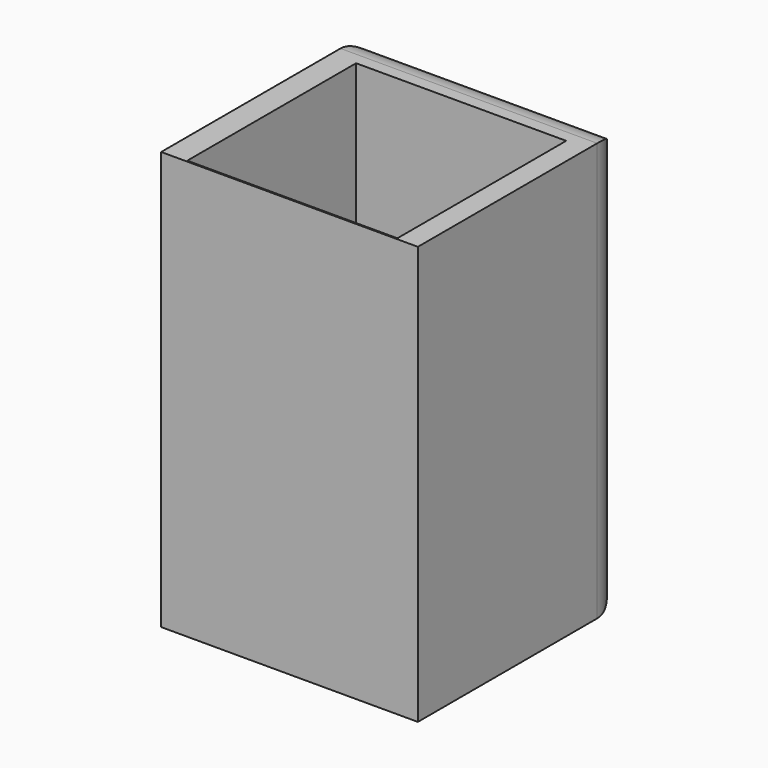
from build123d import *

# Parameters (mm, degrees)
F1_W     = 151.38457
F1_H     = 151.737027
F2_DEPTH = 246.634
F3_R     = 20.32
F4_W     = 123.892136
F4_H     = 124.420833
F5_DEPTH = 238.252
F6_W     = 151.38457
F6_H     = 246.634
F7_DEPTH = 0.762
F8_R     = 7.823659
F9_DEPTH = 130.302


with BuildPart() as f2:
    # F1 (on offset) → F2 (new body)
    with BuildSketch(Plane.XY.offset(-76.454)):
        with Locations((4e-06, -0.176233)):
            Rectangle(F1_W, F1_H)
    extrude(amount=F2_DEPTH)

    # F3
    f3_edges = [f2.edges().sort_by_distance(p)[0] for p in [
        (4e-06, 75.692281, 170.18),
        (75.692289, 75.692281, 46.863),
        (4e-06, 75.692281, -76.454),
        (-75.692281, 75.692281, 46.863),
    ]]
    fillet(f3_edges, radius=F3_R)

    # F4 (on face) → F5 (cut)
    with BuildSketch(Plane.XY.offset(170.18)):
        with Locations((1.057398, -13.83433)):
            Rectangle(F4_W, F4_H)
    extrude(amount=-F5_DEPTH, mode=Mode.SUBTRACT)

    # F6 (on face) → F7 (join)
    with BuildSketch(Plane.XZ.offset(76.044746)):
        with Locations((4e-06, 46.863)):
            Rectangle(F6_W, F6_H)
    extrude(amount=F7_DEPTH)

    # F8 (on face) → F9 (join)
    with BuildSketch(Plane.YZ.offset(-60.88867)):
        with Locations((-18.548923, -6.748606)):
            Circle(F8_R)
    extrude(amount=F9_DEPTH)


solid = f2.part
